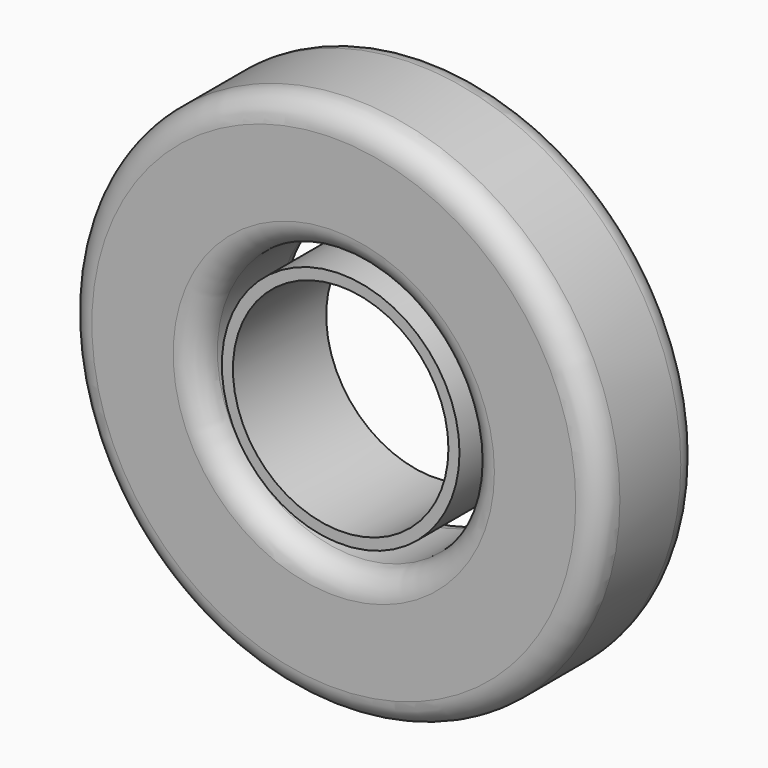
from build123d import *

# Parameters (mm, degrees)
F0_R     = 55.147219
F0_R_2   = 28.160163
F1_DEPTH = 25.908
F2_R     = 5.08
F3_R     = 24.594966
F3_R_2   = 22.298934
F4_DEPTH = 24.13


with BuildPart() as f1:
    # F0 (on Front) → F1 (new body)
    with BuildSketch(Plane.XZ):
        Circle(F0_R)
        Circle(F0_R_2, mode=Mode.SUBTRACT)
    extrude(amount=F1_DEPTH)

    # F2
    f2_edges = [f1.edges().sort_by_distance(p)[0] for p in [
        (-28.160163, -25.908, 0),
        (-55.147219, -25.908, 0),
        (-55.147219, 0, 0),
        (-28.160163, 0, 0),
    ]]
    fillet(f2_edges, radius=F2_R)


with BuildPart() as f4:
    # F3 (on Front) → F4 (new body)
    with BuildSketch(Plane.XZ):
        Circle(F3_R)
        Circle(F3_R_2, mode=Mode.SUBTRACT)
    extrude(amount=F4_DEPTH)


solid = Compound([f1.part, f4.part])
